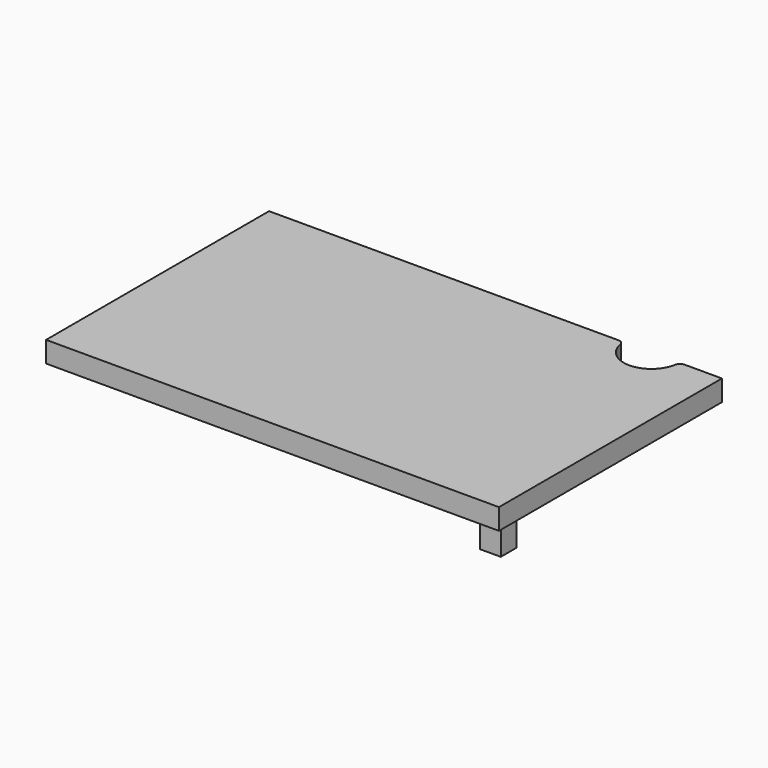
from build123d import *

# Parameters (mm, degrees)
F0_W     = 412.75
F0_H     = 19.05
F1_DEPTH = 254
F3_DEPTH = 19.05
F4_R     = 25.4
F5_DEPTH = 27.87562
F6_R     = 5.08


with BuildPart() as f1:
    # F0 (on Front) → F1 (new body)
    with BuildSketch(Plane.XZ):
        Rectangle(F0_W, F0_H)
    extrude(amount=F1_DEPTH)

    # F4 (on Top) → F5 (cut, symmetric)
    with BuildSketch(Plane.XY):
        with Locations((142.2228491536, 0)):
            Circle(F4_R)
    extrude(amount=F5_DEPTH, both=True, mode=Mode.SUBTRACT)

    # F6
    f6_edges = [f1.edges().sort_by_distance(p)[0] for p in [
        (116.822849, 0, 0),
        (167.622849, 0, 0),
    ]]
    fillet(f6_edges, radius=F6_R)


with BuildPart() as f3:
    # F2 (on Right) → F3 (new body)
    with BuildSketch(Plane.YZ):
        with BuildLine():
            Line((0, -187.3135023741), (0, -5.8043615216))
            Line((0, -5.8043615216), (-185.7877916402, -5.8043615216))
            Line((-185.7877916402, -5.8043615216), (-185.7877916402, -20.7043622875))
            Line((-185.7877916402, -20.7043622875), (-145.0251117239, -20.7043622875))
            ThreePointArc((-145.0251117239, -20.7043622875), (-140.5349836633, -22.5642342269), (-138.6751117239, -27.0543622875))
            Line((-138.6751117239, -27.0543622875), (-138.6751117239, -36.283469063))
            ThreePointArc((-138.6751117239, -36.283469063), (-133.0954959055, -49.7538532446), (-119.6251117239, -55.333469063))
            Line((-119.6251117239, -55.333469063), (-103.2980829477, -55.333469063))
            Line((-103.2980829477, -55.333469063), (-95.6189539141, -55.3567205599))
            ThreePointArc((-95.6189539141, -55.3567205599), (-59.9285427417, -70.1588294385), (-44.9741228903, -105.7856901451))
            Line((-44.9741228903, -105.7856901451), (-44.9173282883, -113.5664560823))
            Line((-44.9173282883, -113.5664560823), (-44.9173282883, -125.2999826817))
            ThreePointArc((-44.9173282883, -125.2999826817), (-39.3377124699, -138.7703668633), (-25.8673282883, -144.3499826817))
            Line((-25.8673282883, -144.3499826817), (-24.1382742187, -144.3499826817))
            ThreePointArc((-24.1382742187, -144.3499826817), (-19.6481461582, -146.2098546212), (-17.7882742187, -150.6999826817))
            Line((-17.7882742187, -150.6999826817), (-17.7882742187, -187.3135023741))
            Line((-17.7882742187, -187.3135023741), (0, -187.3135023741))
        make_face()
    extrude(amount=F3_DEPTH)


solid = Compound([f1.part, f3.part])
